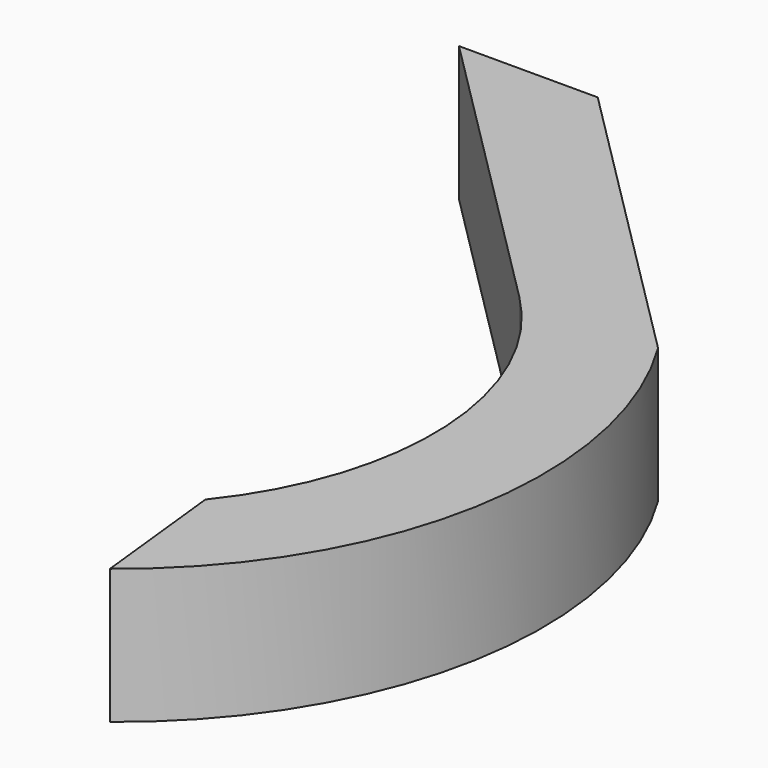
from build123d import *

# Parameters (mm, degrees)
F0_W = 20.814283
F0_H = 20.22492


with BuildPart() as f3:
    # F3: sweep along a path in F1
    with BuildLine(Plane.XY) as f3_path:
        Line((0, 0), (45.24868, -45.24868))
        ThreePointArc((45.24868, -45.24868), (59.044992, -76.165415), (48.664726, -108.390138))
    # F0 (on Front) → F3 (sweep)
    with BuildSketch(Plane.XZ):
        with Locations((10.407141, 10.11246)):
            Rectangle(F0_W, F0_H)
    sweep(path=f3_path.line)


solid = f3.part
